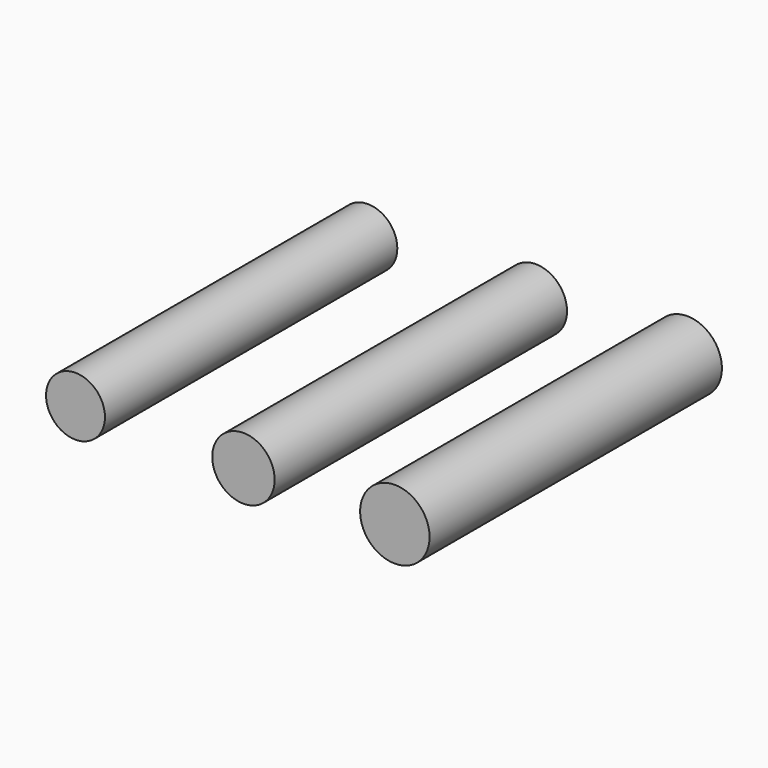
from build123d import *

# Parameters (mm, degrees)
F0_R     = 4.033365
F0_R_2   = 3.81
F0_R_3   = 4.487449
F1_DEPTH = 47.244


with BuildPart() as f1:
    # F0 (on Front) → F1 (new body)
    with BuildSketch(Plane.XZ):
        Circle(F0_R)
        with Locations((-21.712708, 0)):
            Circle(F0_R_2)
        with Locations((19.574335, 0)):
            Circle(F0_R_3)
    extrude(amount=F1_DEPTH)


solid = f1.part
